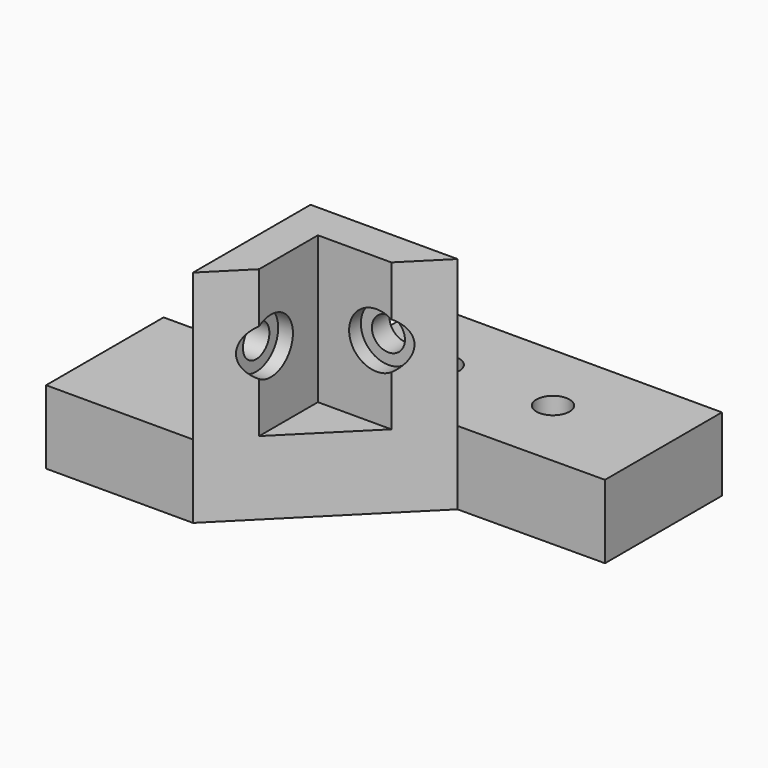
from build123d import *

# Parameters (mm, degrees)
F0_R      = 2.25
F1_DEPTH  = 10
F3_DEPTH  = 20
F4_R      = 2.25
F5_DEPTH  = 5
F6_R      = 2.25
F7_DEPTH  = 5
F8_R      = 3.75
F9_DEPTH  = 2
F10_R     = 3.75
F11_DEPTH = 2


with BuildPart() as f1:
    # F0 (on Top) → F1 (new body)
    with BuildSketch(Plane.XY):
        Polygon((20, 20), (0, 20), (0, 0), (20, 0), (40, 20), (60, 20.106066), (60, 40), (20, 40), align=None)
        with Locations((30, 30)):
            Circle(F0_R, mode=Mode.SUBTRACT)
        with Locations((45, 30)):
            Circle(F0_R, mode=Mode.SUBTRACT)
    extrude(amount=F1_DEPTH)

    # F2 (on face) → F3 (join)
    with BuildSketch(Plane.XY.offset(10)):
        Polygon((40, 20), (20, 20), (20, 0), (25, 5), (25, 10), (25, 15), (30, 15), (35, 15), align=None)
    extrude(amount=F3_DEPTH)

    # F4 (on face) → F5 (cut)
    with BuildSketch(Plane(origin=(20, 0, 0), x_dir=(0, -1, 0), z_dir=(-1, 0, 0))):
        with Locations((-7, 20)):
            Circle(F4_R)
    extrude(amount=-F5_DEPTH, mode=Mode.SUBTRACT)

    # F6 (on face) → F7 (cut)
    with BuildSketch(Plane(origin=(0, 20, 0), x_dir=(-1, 0, 0), z_dir=(0, 1, 0))):
        with Locations((-33, 20)):
            Circle(F6_R)
    extrude(amount=-F7_DEPTH, mode=Mode.SUBTRACT)

    # F8 (on face) → F9 (cut)
    with BuildSketch(Plane.XZ.offset(-15)):
        with Locations((33, 20)):
            Circle(F8_R)
    extrude(amount=-F9_DEPTH, mode=Mode.SUBTRACT)

    # F10 (on face) → F11 (cut)
    with BuildSketch(Plane.YZ.offset(25)):
        with Locations((7, 20)):
            Circle(F10_R)
    extrude(amount=-F11_DEPTH, mode=Mode.SUBTRACT)


solid = f1.part
